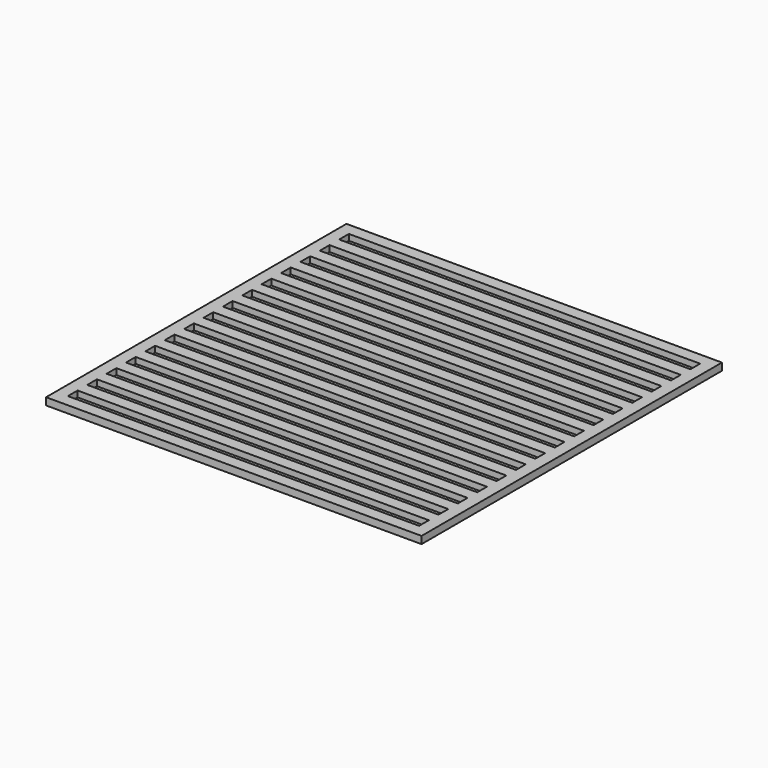
from build123d import *

# Parameters (mm, degrees)
F0_W     = 310
F0_H     = 310
F0_W_2   = 290
F0_H_2   = 10
F1_DEPTH = 5
F2_W     = 310
F2_H     = 310
F3_DEPTH = 1


with BuildPart() as f1:
    # F0 (on Top) → F1 (new body)
    with BuildSketch(Plane.XY):
        with Locations((-123.381258, -159.152733)):
            Rectangle(F0_W, F0_H)
        with Locations((-123.381258, -159.152733)):
            Rectangle(F0_W_2, F0_H_2, mode=Mode.SUBTRACT)
        with Locations((-123.381258, -299.152733)):
            Rectangle(F0_W_2, F0_H_2, mode=Mode.SUBTRACT)
        with Locations((-123.381258, -279.152733)):
            Rectangle(F0_W_2, F0_H_2, mode=Mode.SUBTRACT)
        with Locations((-123.381258, -259.152733)):
            Rectangle(F0_W_2, F0_H_2, mode=Mode.SUBTRACT)
        with Locations((-123.381258, -239.152733)):
            Rectangle(F0_W_2, F0_H_2, mode=Mode.SUBTRACT)
        with Locations((-123.381258, -219.152733)):
            Rectangle(F0_W_2, F0_H_2, mode=Mode.SUBTRACT)
        with Locations((-123.381258, -199.152733)):
            Rectangle(F0_W_2, F0_H_2, mode=Mode.SUBTRACT)
        with Locations((-123.381258, -179.152733)):
            Rectangle(F0_W_2, F0_H_2, mode=Mode.SUBTRACT)
        with Locations((-123.381258, -139.152733)):
            Rectangle(F0_W_2, F0_H_2, mode=Mode.SUBTRACT)
        with Locations((-123.381258, -119.152733)):
            Rectangle(F0_W_2, F0_H_2, mode=Mode.SUBTRACT)
        with Locations((-123.381258, -99.152733)):
            Rectangle(F0_W_2, F0_H_2, mode=Mode.SUBTRACT)
        with Locations((-123.381258, -79.152733)):
            Rectangle(F0_W_2, F0_H_2, mode=Mode.SUBTRACT)
        with Locations((-123.381258, -59.152733)):
            Rectangle(F0_W_2, F0_H_2, mode=Mode.SUBTRACT)
        with Locations((-123.381258, -39.152733)):
            Rectangle(F0_W_2, F0_H_2, mode=Mode.SUBTRACT)
        with Locations((-123.381258, -19.152733)):
            Rectangle(F0_W_2, F0_H_2, mode=Mode.SUBTRACT)
    extrude(amount=F1_DEPTH)

    # F2 (on face) → F3 (join)
    with BuildSketch(Plane(origin=(0, 0, 0), x_dir=(1, 0, 0), z_dir=(0, 0, -1))):
        with Locations((-123.381258, 159.152733)):
            Rectangle(F2_W, F2_H)
    extrude(amount=F3_DEPTH)


solid = f1.part
